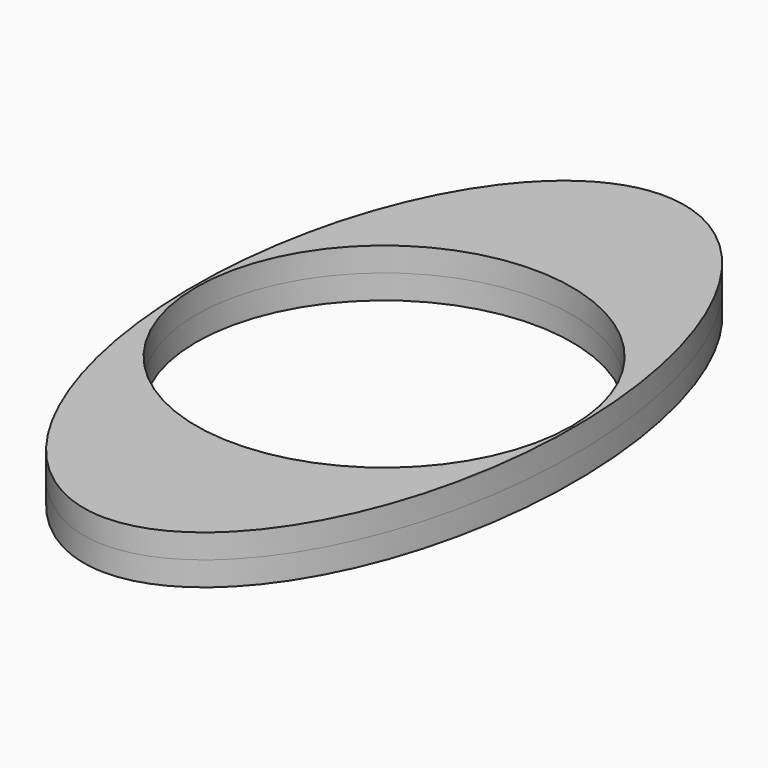
from build123d import *

# Parameters (mm, degrees)
F0_R     = 2.9591
F1_DEPTH = 0.381


with BuildPart() as f1:
    # F0 (on Top) → F1 (new body, symmetric)
    with BuildSketch(Plane.XY):
        with BuildLine():
            add(Edge.make_bspline(
                [(0, -5.5), (5.196152, -5.5), (2.598076, 2.75), (0, 11), (-2.598076, 2.75), (-5.196152, -5.5), (0, -5.5)],
                knots=[0, 0, 0, 2.094395, 2.094395, 4.18879, 4.18879, 6.283185, 6.283185, 6.283185], degree=2, weights=[1, 0.5, 1, 0.5, 1, 0.5, 1]))
        make_face()
        Circle(F0_R, mode=Mode.SUBTRACT)
    extrude(amount=F1_DEPTH, both=True)


solid = f1.part
